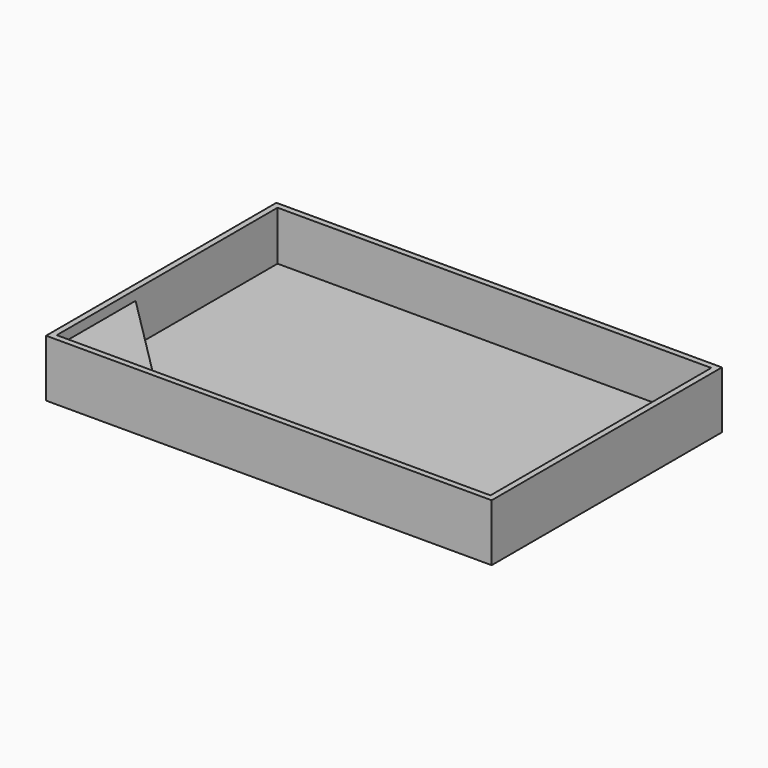
from build123d import *

# Parameters (mm, degrees)
F0_W     = 90.4
F0_H     = 58.4
F0_W_2   = 88
F0_H_2   = 56
F1_DEPTH = 1.6
F2_W     = 90.4
F2_H     = 58.4
F2_W_2   = 88
F2_H_2   = 56
F3_DEPTH = 10
F5_DEPTH = 8


with BuildPart() as f1:
    # F0 (on Top) → F1 (new body)
    with BuildSketch(Plane.XY):
        Rectangle(F0_W, F0_H)
        Rectangle(F0_W_2, F0_H_2, mode=Mode.SUBTRACT)
        Rectangle(F0_W_2, F0_H_2)
    extrude(amount=F1_DEPTH)

    # F2 (on face) → F3 (join)
    with BuildSketch(Plane.XY.offset(1.6)):
        Rectangle(F2_W, F2_H)
        Rectangle(F2_W_2, F2_H_2, mode=Mode.SUBTRACT)
    extrude(amount=F3_DEPTH)

    # F4 (on face) → F5 (join)
    with BuildSketch(Plane.XY.offset(1.6)):
        Polygon((-24, -28), (-44, -8), (-44, -28), align=None)
    extrude(amount=F5_DEPTH)


solid = f1.part
